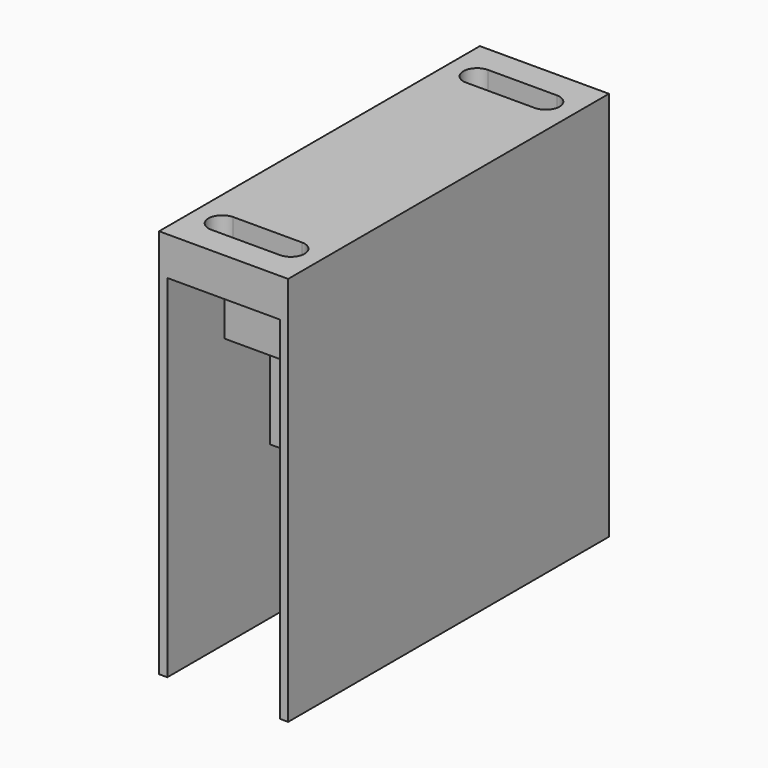
from build123d import *

# Parameters (mm, degrees)
F0_W     = 20.5
F0_H     = 47
F1_DEPTH = 22
F0_H_2   = 13
F2_DEPTH = 7
F3_DEPTH = 71
F4_W     = 17.699432
F4_H     = 29.777118
F5_DEPTH = 20
F6_R     = 5
F7_DEPTH = 10
F8_R     = 2.998853
F9_DEPTH = 10


with BuildPart() as f1:
    # F0 (on Top) → F1 (new body)
    with BuildSketch(Plane.XY):
        Rectangle(F0_W, F0_H)
    extrude(amount=-F1_DEPTH)

    # F0 (on Top) → F2 (join)
    with BuildSketch(Plane.XY):
        with Locations((0, -30)):
            Rectangle(F0_W, F0_H_2)
        with BuildLine():
            ThreePointArc((-6.25, -31.5), (-8.75, -29), (-6.25, -26.5))
            Line((-6.25, -26.5), (6.25, -26.5))
            ThreePointArc((6.25, -26.5), (8.017767, -27.232233), (8.75, -29))
            ThreePointArc((8.75, -29), (8.017767, -30.767767), (6.25, -31.5))
            Line((6.25, -31.5), (-6.25, -31.5))
        make_face(mode=Mode.SUBTRACT)
        with Locations((0, 30)):
            Rectangle(F0_W, F0_H_2)
        with BuildLine():
            ThreePointArc((6.25, 31.5), (8.017767, 30.767767), (8.75, 29))
            ThreePointArc((8.75, 29), (8.017767, 27.232233), (6.25, 26.5))
            Line((6.25, 26.5), (-6.25, 26.5))
            ThreePointArc((-6.25, 26.5), (-8.75, 29), (-6.25, 31.5))
            Line((-6.25, 31.5), (6.25, 31.5))
        make_face(mode=Mode.SUBTRACT)
    extrude(amount=-F2_DEPTH)

    # F0 (on Top) → F3 (join)
    with BuildSketch(Plane.XY):
        Polygon((-10.25, 36.5), (-11.75, 36.5), (-11.75, -36.5), (-10.25, -36.5), (-10.25, -23.5), (-10.25, 23.5), align=None)
        Polygon((11.75, 36.5), (10.25, 36.5), (10.25, 23.5), (10.25, -23.5), (10.25, -36.5), (11.75, -36.5), align=None)
    extrude(amount=-F3_DEPTH)

    # F4 (on face) → F5 (join)
    with BuildSketch(Plane(origin=(0, 0, -22), x_dir=(1, 0, 0), z_dir=(0, 0, -1))):
        Rectangle(F4_W, F4_H)
    extrude(amount=F5_DEPTH)

    # F6 (on face) → F7 (cut)
    with BuildSketch(Plane.XZ.offset(14.888559)):
        with Locations((0, -32)):
            Circle(F6_R)
    extrude(amount=-F7_DEPTH, mode=Mode.SUBTRACT)

    # F8 (on face) → F9 (cut)
    with BuildSketch(Plane(origin=(0, 14.888559, 0), x_dir=(-1, 0, 0), z_dir=(0, 1, 0))):
        with Locations((4.424858, -27)):
            Circle(F8_R)
        with Locations((4.424858, -37)):
            Circle(F8_R)
        with Locations((-4.424858, -37)):
            Circle(F8_R)
        with Locations((-4.424858, -27)):
            Circle(F8_R)
    extrude(amount=-F9_DEPTH, mode=Mode.SUBTRACT)


solid = f1.part
